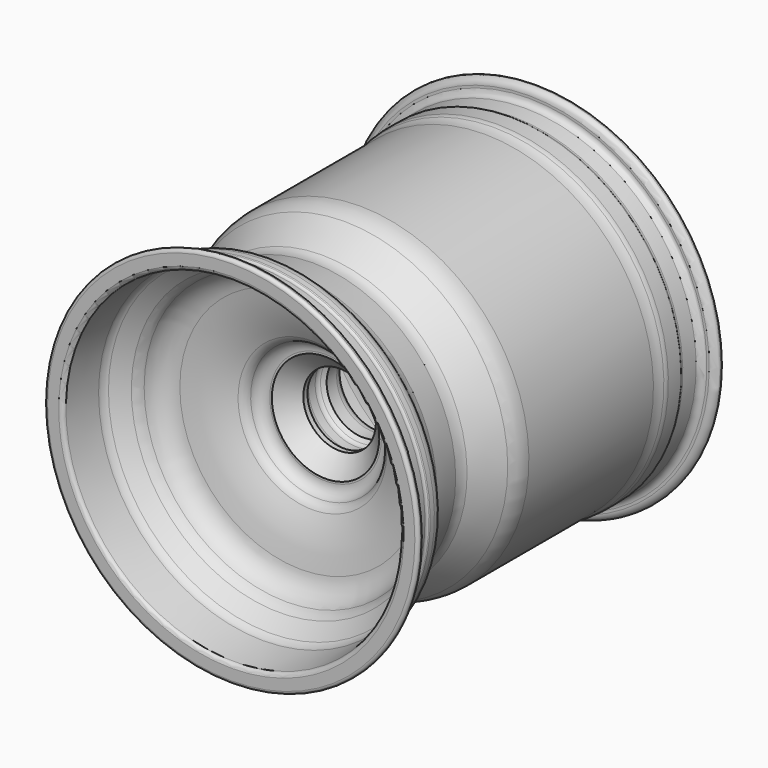
from build123d import *


with BuildPart() as f1:
    # F0 (on Right) → F1 (revolve)
    with BuildSketch(Plane.YZ):
        with BuildLine():
            ThreePointArc((179.400696, 161.348523), (181.966714, 162.64538), (183, 165.328403))
            Line((183, 165.328403), (183, 176))
            ThreePointArc((183, 176), (181.963961, 178.267787), (179.571429, 178.96923))
            ThreePointArc((179.571429, 178.96923), (175.586462, 176.791147), (174, 172.535898))
            Line((174, 172.535898), (174, 170.25125))
            ThreePointArc((174, 170.25125), (172.450071, 166.226717), (168.601044, 164.28143))
            Line((168.601044, 164.28143), (154.400696, 162.851732))
            ThreePointArc((154.400696, 162.851732), (152.677256, 163.056649), (151.202842, 163.972258))
            ThreePointArc((151.202842, 163.972258), (150.720305, 164.288954), (150.153908, 164.4))
            Line((150.153908, 164.4), (135.153908, 164.4))
            ThreePointArc((135.153908, 164.4), (132.907314, 164.204406), (130.728324, 163.623511))
            ThreePointArc((130.728324, 163.623511), (125.699885, 162.282982), (120.515439, 161.831612))
            Line((120.515439, 161.831612), (-28.680727, 161.831612))
            ThreePointArc((-28.680727, 161.831612), (-38.387275, 160.458728), (-47.332338, 156.44778))
            Line((-47.332338, 156.44778), (-74.582576, 139.28618))
            ThreePointArc((-74.582576, 139.28618), (-79.754881, 137.180522), (-85.335796, 136.980711))
            Line((-85.335796, 136.980711), (-112.411519, 140.785956))
            ThreePointArc((-112.411519, 140.785956), (-117.417378, 142.358276), (-121.645423, 145.465436))
            Line((-121.645423, 145.465436), (-136.558402, 160.773606))
            ThreePointArc((-136.558402, 160.773606), (-140.489322, 163.456294), (-145.153908, 164.4))
            Line((-145.153908, 164.4), (-150.153908, 164.4))
            ThreePointArc((-150.153908, 164.4), (-150.720305, 164.288954), (-151.202842, 163.972258))
            ThreePointArc((-151.202842, 163.972258), (-152.677256, 163.056649), (-154.400696, 162.851732))
            Line((-154.400696, 162.851732), (-168.601044, 164.28143))
            ThreePointArc((-168.601044, 164.28143), (-172.450071, 166.226717), (-174, 170.25125))
            Line((-174, 170.25125), (-174, 172.535898))
            ThreePointArc((-174, 172.535898), (-175.586462, 176.791147), (-179.571429, 178.96923))
            ThreePointArc((-179.571429, 178.96923), (-181.963961, 178.267787), (-183, 176))
            Line((-183, 176), (-183, 165.328403))
            ThreePointArc((-183, 165.328403), (-181.966714, 162.64538), (-179.400696, 161.348523))
            Line((-179.400696, 161.348523), (-144.605558, 157.845331))
            ThreePointArc((-144.605558, 157.845331), (-140.594455, 156.714144), (-137.212141, 154.279298))
            Line((-137.212141, 154.279298), (-125.226884, 141.976434))
            ThreePointArc((-125.226884, 141.976434), (-121.218054, 138.762223), (-116.548681, 136.617739))
            ThreePointArc((-116.548681, 136.617739), (-104.992808, 128.885788), (-99.354725, 116.176213))
            ThreePointArc((-99.354725, 116.176213), (-94.348833, 93.173672), (-85.80571, 71.237607))
            ThreePointArc((-85.80571, 71.237607), (-82.807577, 67.343756), (-78.5, 64.97824))
            ThreePointArc((-78.5, 64.97824), (-72.356349, 60.641428), (-70, 53.5))
            Line((-70, 53.5), (-70, 51.5))
            Line((-70, 51.5), (-53.25, 34.75))
            Line((-53.25, 34.75), (-48.25, 34.75))
            Line((-48.25, 34.75), (-44.757359, 38.242641))
            ThreePointArc((-44.757359, 38.242641), (-42.810819, 39.543277), (-40.514719, 40))
            Line((-40.514719, 40), (-32.485281, 40))
            ThreePointArc((-32.485281, 40), (-30.189181, 39.543277), (-28.242641, 38.242641))
            Line((-28.242641, 38.242641), (-25, 35))
            Line((-25, 35), (-13, 35))
            ThreePointArc((-13, 35), (-8.527864, 36.055728), (-5, 39))
            Line((-5, 39), (-5, 72.5))
            Line((-5, 72.5), (-10, 72.5))
            ThreePointArc((-10, 72.5), (-28.838468, 76.632995), (-44.216524, 88.272795))
            ThreePointArc((-44.216524, 88.272795), (-53.291561, 99.819449), (-61.395092, 112.067481))
            ThreePointArc((-61.395092, 112.067481), (-64.555265, 129.694565), (-55.115611, 144.912768))
            Line((-55.115611, 144.912768), (-46.161855, 151.709487))
            ThreePointArc((-46.161855, 151.709487), (-36.164103, 157.003329), (-25, 158.831612))
            Line((-25, 158.831612), (120.515439, 158.831612))
            ThreePointArc((120.515439, 158.831612), (126.21833, 159.328119), (131.749613, 160.8027))
            ThreePointArc((131.749613, 160.8027), (133.425759, 161.249543), (135.153908, 161.4))
            Line((135.153908, 161.4), (144.733644, 161.4))
            ThreePointArc((144.733644, 161.4), (147.404676, 161.036679), (149.88162, 159.973118))
            ThreePointArc((149.88162, 159.973118), (152.252488, 159.024807), (154.801393, 158.871853))
            Line((154.801393, 158.871853), (179.400696, 161.348523))
        make_face()
    revolve(axis=Axis((0, 2.549611, 0), (0, 1, 0)))


solid = f1.part
